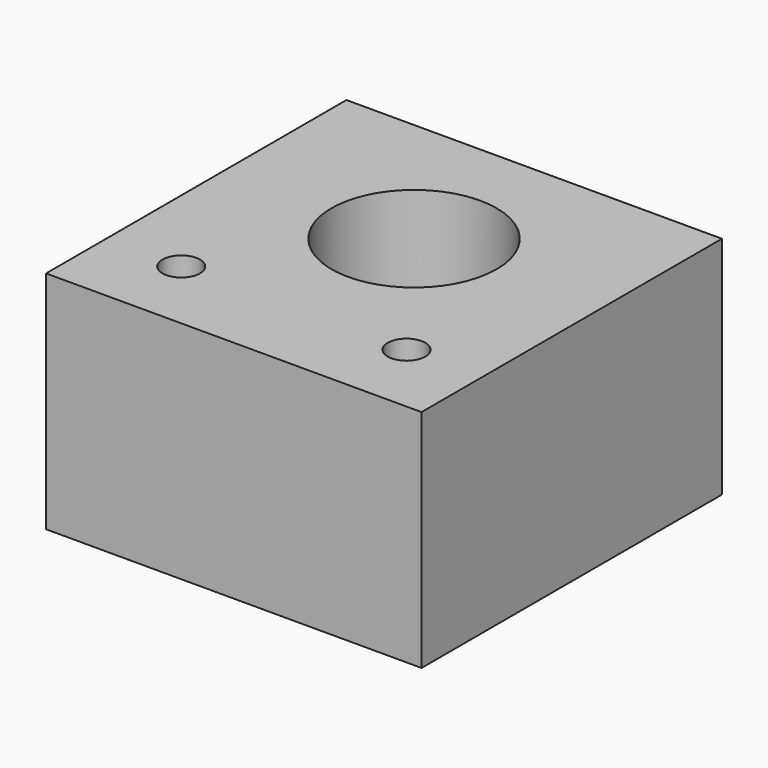
from build123d import *

# Parameters (mm, degrees)
F0_W     = 50
F0_H     = 50
F0_R     = 2.5
F0_R_2   = 11
F1_DEPTH = 30


with BuildPart() as f1:
    # F0 (on Top) → F1 (new body)
    with BuildSketch(Plane.XY):
        Rectangle(F0_W, F0_H)
        with Locations((-15, -15)):
            Circle(F0_R, mode=Mode.SUBTRACT)
        with Locations((15, -15)):
            Circle(F0_R, mode=Mode.SUBTRACT)
        with Locations((0, 5)):
            Circle(F0_R_2, mode=Mode.SUBTRACT)
    extrude(amount=F1_DEPTH)


solid = f1.part
